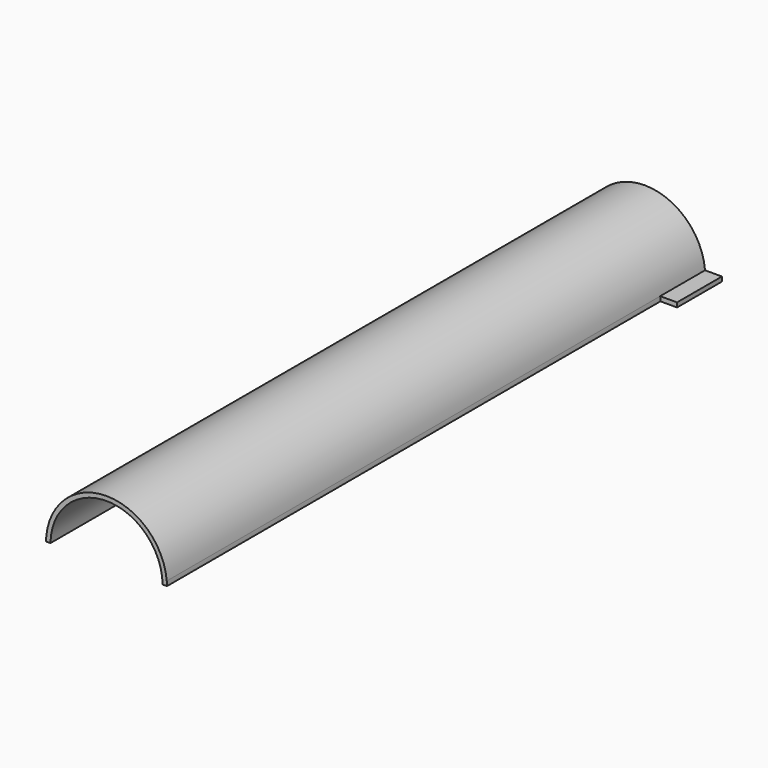
from build123d import *

# Parameters (mm, degrees)
F1_DEPTH = 1219.2
F2_DEPTH = 101.6


with BuildPart() as f1:
    # F0 (on Front) → F1 (new body)
    with BuildSketch(Plane.XZ):
        with BuildLine():
            Line((101.592062, 1.27), (109.530137, 1.27))
            ThreePointArc((109.530137, 1.27), (109.406127, 5.363148), (109.129208, 9.4488))
            ThreePointArc((109.129208, 9.4488), (0, 109.5375), (-109.129208, 9.4488))
            ThreePointArc((-109.129208, 9.4488), (-109.406127, 5.363148), (-109.530137, 1.27))
            Line((-109.530137, 1.27), (-101.592062, 1.27))
            ThreePointArc((-101.592062, 1.27), (0, 101.6), (101.592062, 1.27))
        make_face()
    extrude(amount=F1_DEPTH)

    # F0 (on Front) → F2 (join)
    with BuildSketch(Plane.XZ):
        with BuildLine():
            Line((-139.692062, 1.27), (-127, 1.27))
            Line((-127, 1.27), (-109.530137, 1.27))
            ThreePointArc((-109.530137, 1.27), (-109.406127, 5.363148), (-109.129208, 9.4488))
            Line((-109.129208, 9.4488), (-139.692062, 9.4488))
            Line((-139.692062, 9.4488), (-139.692062, 1.27))
        make_face()
        with BuildLine():
            Line((109.530137, 1.27), (127, 1.27))
            Line((127, 1.27), (139.692062, 1.27))
            Line((139.692062, 1.27), (139.692062, 9.4488))
            Line((139.692062, 9.4488), (109.129208, 9.4488))
            ThreePointArc((109.129208, 9.4488), (109.406127, 5.363148), (109.530137, 1.27))
        make_face()
    extrude(amount=F2_DEPTH)


solid = f1.part
